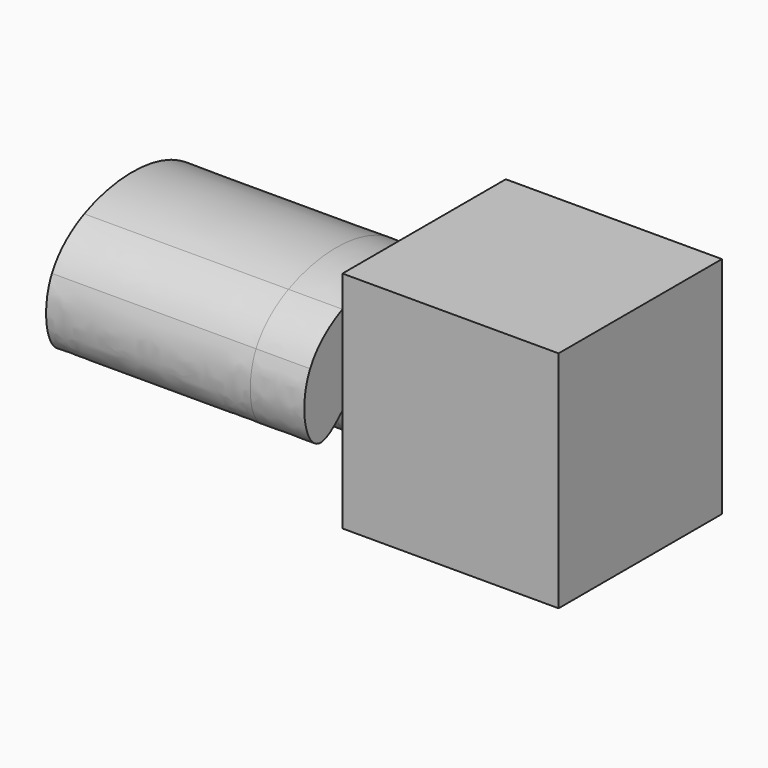
from build123d import *

# Parameters (mm, degrees)
F0_W     = 51.8215708435
F0_H     = 48.9562377334
F1_DEPTH = 53.8191795349
F3_DEPTH = 12.955410406
F4_DEPTH = 48.955399543


with BuildPart() as f1:
    # F0 (on Top) → F1 (new body)
    with BuildSketch(Plane.XY):
        with Locations((1.4984700829, -0.7242448628)):
            Rectangle(F0_W, F0_H)
    extrude(amount=F1_DEPTH)


with BuildPart() as f3:
    # F2 (on face) → F3 (new body)
    with BuildSketch(Plane(origin=(-24.4123153389, 0, 0), x_dir=(0, -1, 0), z_dir=(-1, 0, 0))):
        with BuildLine():
            add(Edge.make_bspline(
                [(25.2023637295, 24.8991206986), (27.4328722263, 22.7130681905), (35.272473577, 16.4203572017), (38.4819320218, 30.5574458081), (34.9008925259, 37.6650169492)],
                knots=[0.8247815937, 0.8247815937, 0.8247815937, 0.8247815937, 0.8743130724, 1, 1, 1, 1], degree=3))
            add(Edge.make_bspline(
                [(34.9008925259, 37.6650169492), (33.0151339497, 41.4078305235), (29.4979390267, 44.3095338115), (25.2023637295, 46.27491442)],
                knots=[0, 0, 0, 0, 0.0661861456, 0.0661861456, 0.0661861456, 0.0661861456], degree=3))
            Line((25.2023637295, 46.27491442), (25.2023637295, 24.8991206986))
        make_face()
        with BuildLine():
            Line((25.2023637295, 24.8991206986), (25.2023637295, 46.27491442))
            add(Edge.make_bspline(
                [(25.2023637295, 46.27491442), (17.6619977554, 49.7249037791), (-5.8575945119, 51.0615692521), (-21.7809004535, 25.6913665566), (-10.523133677, 12.533279507), (15.5552460631, 1.9809499794), (10.5310117353, 42.6018878712), (21.2226517417, 28.7995135394), (25.2023637295, 24.8991206986)],
                knots=[0.0661861456, 0.0661861456, 0.0661861456, 0.0661861456, 0.1823679667, 0.3411227101, 0.4601721444, 0.5900585515, 0.7364066694, 0.8247815937, 0.8247815937, 0.8247815937, 0.8247815937], degree=3))
        make_face()
    extrude(amount=F3_DEPTH)

    # F4 (add): a face of the model
    f4_faces = [f3.faces().sort_by_distance(p)[0] for p in [
        (-37.3677257448, -7.6885673531, 30.8637236045),
    ]]
    extrude(f4_faces, amount=F4_DEPTH)


solid = Compound([f1.part, f3.part])
